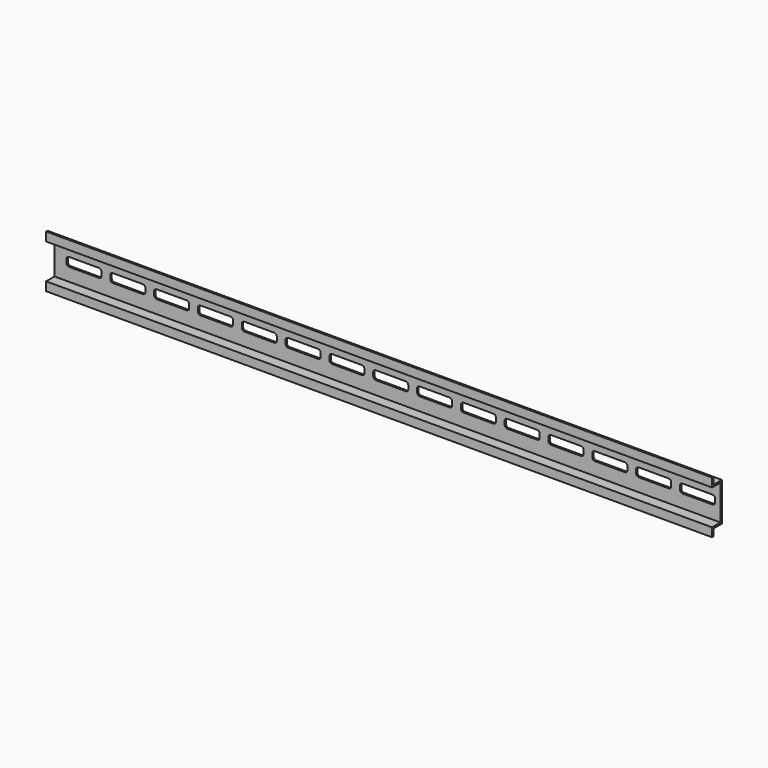
from build123d import *

# Parameters (mm, degrees)
F1_DEPTH = 380
F3_DEPTH = 25


with BuildPart() as f1:
    # F0 (on Right) → F1 (new body)
    with BuildSketch(Plane.YZ):
        Polygon((0, -25.031198), (0, -3.031198), (-6, -3.031198), (-6, 0.968802), (-7, 0.968802), (-7, -4.031198), (-1, -4.031198), (-1, -24.031198), (-7, -24.031198), (-7, -29.031198), (-6, -29.031198), (-6, -25.031198), align=None)
    extrude(amount=F1_DEPTH)

    # F2 (on face) → F3 (cut)
    with BuildSketch(Plane.XZ.offset(1)):
        with BuildLine():
            Line((6.85557, -13.031198), (6.85557, -14.031198))
            Line((6.85557, -14.031198), (26.85557, -14.031198))
            Line((26.85557, -14.031198), (26.85557, -13.031198))
            ThreePointArc((26.85557, -13.031198), (26.41623, -11.970538), (25.35557, -11.531198))
            Line((25.35557, -11.531198), (8.35557, -11.531198))
            ThreePointArc((8.35557, -11.531198), (7.294909, -11.970538), (6.85557, -13.031198))
        make_face()
        with BuildLine():
            Line((26.85557, -14.031198), (6.85557, -14.031198))
            Line((6.85557, -14.031198), (6.85557, -15.031198))
            ThreePointArc((6.85557, -15.031198), (7.294909, -16.091858), (8.35557, -16.531198))
            Line((8.35557, -16.531198), (25.35557, -16.531198))
            ThreePointArc((25.35557, -16.531198), (26.41623, -16.091858), (26.85557, -15.031198))
            Line((26.85557, -15.031198), (26.85557, -14.031198))
        make_face()
        with BuildLine():
            Line((31.85557, -13.031198), (31.85557, -14.031198))
            Line((31.85557, -14.031198), (51.85557, -14.031198))
            Line((51.85557, -14.031198), (51.85557, -13.031198))
            ThreePointArc((51.85557, -13.031198), (51.41623, -11.970538), (50.35557, -11.531198))
            Line((50.35557, -11.531198), (33.35557, -11.531198))
            ThreePointArc((33.35557, -11.531198), (32.294909, -11.970538), (31.85557, -13.031198))
        make_face()
        with BuildLine():
            Line((51.85557, -14.031198), (31.85557, -14.031198))
            Line((31.85557, -14.031198), (31.85557, -15.031198))
            ThreePointArc((31.85557, -15.031198), (32.294909, -16.091858), (33.35557, -16.531198))
            Line((33.35557, -16.531198), (50.35557, -16.531198))
            ThreePointArc((50.35557, -16.531198), (51.41623, -16.091858), (51.85557, -15.031198))
            Line((51.85557, -15.031198), (51.85557, -14.031198))
        make_face()
        with BuildLine():
            Line((56.85557, -13.031198), (56.85557, -14.031198))
            Line((56.85557, -14.031198), (76.85557, -14.031198))
            Line((76.85557, -14.031198), (76.85557, -13.031198))
            ThreePointArc((76.85557, -13.031198), (76.41623, -11.970538), (75.35557, -11.531198))
            Line((75.35557, -11.531198), (58.35557, -11.531198))
            ThreePointArc((58.35557, -11.531198), (57.294909, -11.970538), (56.85557, -13.031198))
        make_face()
        with BuildLine():
            Line((76.85557, -14.031198), (56.85557, -14.031198))
            Line((56.85557, -14.031198), (56.85557, -15.031198))
            ThreePointArc((56.85557, -15.031198), (57.294909, -16.091858), (58.35557, -16.531198))
            Line((58.35557, -16.531198), (75.35557, -16.531198))
            ThreePointArc((75.35557, -16.531198), (76.41623, -16.091858), (76.85557, -15.031198))
            Line((76.85557, -15.031198), (76.85557, -14.031198))
        make_face()
        with BuildLine():
            Line((81.85557, -13.031198), (81.85557, -14.031198))
            Line((81.85557, -14.031198), (101.85557, -14.031198))
            Line((101.85557, -14.031198), (101.85557, -13.031198))
            ThreePointArc((101.85557, -13.031198), (101.41623, -11.970538), (100.35557, -11.531198))
            Line((100.35557, -11.531198), (83.35557, -11.531198))
            ThreePointArc((83.35557, -11.531198), (82.294909, -11.970538), (81.85557, -13.031198))
        make_face()
        with BuildLine():
            Line((101.85557, -14.031198), (81.85557, -14.031198))
            Line((81.85557, -14.031198), (81.85557, -15.031198))
            ThreePointArc((81.85557, -15.031198), (82.294909, -16.091858), (83.35557, -16.531198))
            Line((83.35557, -16.531198), (100.35557, -16.531198))
            ThreePointArc((100.35557, -16.531198), (101.41623, -16.091858), (101.85557, -15.031198))
            Line((101.85557, -15.031198), (101.85557, -14.031198))
        make_face()
        with BuildLine():
            Line((106.85557, -13.031198), (106.85557, -14.031198))
            Line((106.85557, -14.031198), (126.85557, -14.031198))
            Line((126.85557, -14.031198), (126.85557, -13.031198))
            ThreePointArc((126.85557, -13.031198), (126.41623, -11.970538), (125.35557, -11.531198))
            Line((125.35557, -11.531198), (108.35557, -11.531198))
            ThreePointArc((108.35557, -11.531198), (107.294909, -11.970538), (106.85557, -13.031198))
        make_face()
        with BuildLine():
            Line((126.85557, -14.031198), (106.85557, -14.031198))
            Line((106.85557, -14.031198), (106.85557, -15.031198))
            ThreePointArc((106.85557, -15.031198), (107.294909, -16.091858), (108.35557, -16.531198))
            Line((108.35557, -16.531198), (125.35557, -16.531198))
            ThreePointArc((125.35557, -16.531198), (126.41623, -16.091858), (126.85557, -15.031198))
            Line((126.85557, -15.031198), (126.85557, -14.031198))
        make_face()
        with BuildLine():
            Line((131.85557, -13.031198), (131.85557, -14.031198))
            Line((131.85557, -14.031198), (151.85557, -14.031198))
            Line((151.85557, -14.031198), (151.85557, -13.031198))
            ThreePointArc((151.85557, -13.031198), (151.41623, -11.970538), (150.35557, -11.531198))
            Line((150.35557, -11.531198), (133.35557, -11.531198))
            ThreePointArc((133.35557, -11.531198), (132.294909, -11.970538), (131.85557, -13.031198))
        make_face()
        with BuildLine():
            Line((151.85557, -14.031198), (131.85557, -14.031198))
            Line((131.85557, -14.031198), (131.85557, -15.031198))
            ThreePointArc((131.85557, -15.031198), (132.294909, -16.091858), (133.35557, -16.531198))
            Line((133.35557, -16.531198), (150.35557, -16.531198))
            ThreePointArc((150.35557, -16.531198), (151.41623, -16.091858), (151.85557, -15.031198))
            Line((151.85557, -15.031198), (151.85557, -14.031198))
        make_face()
        with BuildLine():
            Line((176.85557, -14.031198), (156.85557, -14.031198))
            Line((156.85557, -14.031198), (156.85557, -15.031198))
            ThreePointArc((156.85557, -15.031198), (157.294909, -16.091858), (158.35557, -16.531198))
            Line((158.35557, -16.531198), (175.35557, -16.531198))
            ThreePointArc((175.35557, -16.531198), (176.41623, -16.091858), (176.85557, -15.031198))
            Line((176.85557, -15.031198), (176.85557, -14.031198))
        make_face()
        with BuildLine():
            Line((156.85557, -13.031198), (156.85557, -14.031198))
            Line((156.85557, -14.031198), (176.85557, -14.031198))
            Line((176.85557, -14.031198), (176.85557, -13.031198))
            ThreePointArc((176.85557, -13.031198), (176.41623, -11.970538), (175.35557, -11.531198))
            Line((175.35557, -11.531198), (158.35557, -11.531198))
            ThreePointArc((158.35557, -11.531198), (157.294909, -11.970538), (156.85557, -13.031198))
        make_face()
        with BuildLine():
            Line((181.85557, -13.031198), (181.85557, -14.031198))
            Line((181.85557, -14.031198), (201.85557, -14.031198))
            Line((201.85557, -14.031198), (201.85557, -13.031198))
            ThreePointArc((201.85557, -13.031198), (201.41623, -11.970538), (200.35557, -11.531198))
            Line((200.35557, -11.531198), (183.35557, -11.531198))
            ThreePointArc((183.35557, -11.531198), (182.294909, -11.970538), (181.85557, -13.031198))
        make_face()
        with BuildLine():
            Line((201.85557, -14.031198), (181.85557, -14.031198))
            Line((181.85557, -14.031198), (181.85557, -15.031198))
            ThreePointArc((181.85557, -15.031198), (182.294909, -16.091858), (183.35557, -16.531198))
            Line((183.35557, -16.531198), (200.35557, -16.531198))
            ThreePointArc((200.35557, -16.531198), (201.41623, -16.091858), (201.85557, -15.031198))
            Line((201.85557, -15.031198), (201.85557, -14.031198))
        make_face()
        with BuildLine():
            Line((226.85557, -15.031198), (226.85557, -14.031198))
            Line((226.85557, -14.031198), (206.85557, -14.031198))
            Line((206.85557, -14.031198), (206.85557, -15.031198))
            ThreePointArc((206.85557, -15.031198), (207.294909, -16.091858), (208.35557, -16.531198))
            Line((208.35557, -16.531198), (225.35557, -16.531198))
            ThreePointArc((225.35557, -16.531198), (226.41623, -16.091858), (226.85557, -15.031198))
        make_face()
        with BuildLine():
            Line((206.85557, -14.031198), (226.85557, -14.031198))
            Line((226.85557, -14.031198), (226.85557, -13.031198))
            ThreePointArc((226.85557, -13.031198), (226.41623, -11.970538), (225.35557, -11.531198))
            Line((225.35557, -11.531198), (208.35557, -11.531198))
            ThreePointArc((208.35557, -11.531198), (207.294909, -11.970538), (206.85557, -13.031198))
            Line((206.85557, -13.031198), (206.85557, -14.031198))
        make_face()
        with BuildLine():
            Line((251.85557, -15.031198), (251.85557, -14.031198))
            Line((251.85557, -14.031198), (231.85557, -14.031198))
            Line((231.85557, -14.031198), (231.85557, -15.031198))
            ThreePointArc((231.85557, -15.031198), (232.294909, -16.091858), (233.35557, -16.531198))
            Line((233.35557, -16.531198), (250.35557, -16.531198))
            ThreePointArc((250.35557, -16.531198), (251.41623, -16.091858), (251.85557, -15.031198))
        make_face()
        with BuildLine():
            Line((231.85557, -14.031198), (251.85557, -14.031198))
            Line((251.85557, -14.031198), (251.85557, -13.031198))
            ThreePointArc((251.85557, -13.031198), (251.41623, -11.970538), (250.35557, -11.531198))
            Line((250.35557, -11.531198), (233.35557, -11.531198))
            ThreePointArc((233.35557, -11.531198), (232.294909, -11.970538), (231.85557, -13.031198))
            Line((231.85557, -13.031198), (231.85557, -14.031198))
        make_face()
        with BuildLine():
            Line((276.85557, -15.031198), (276.85557, -14.031198))
            Line((276.85557, -14.031198), (256.85557, -14.031198))
            Line((256.85557, -14.031198), (256.85557, -15.031198))
            ThreePointArc((256.85557, -15.031198), (257.294909, -16.091858), (258.35557, -16.531198))
            Line((258.35557, -16.531198), (275.35557, -16.531198))
            ThreePointArc((275.35557, -16.531198), (276.41623, -16.091858), (276.85557, -15.031198))
        make_face()
        with BuildLine():
            Line((256.85557, -14.031198), (276.85557, -14.031198))
            Line((276.85557, -14.031198), (276.85557, -13.031198))
            ThreePointArc((276.85557, -13.031198), (276.41623, -11.970538), (275.35557, -11.531198))
            Line((275.35557, -11.531198), (258.35557, -11.531198))
            ThreePointArc((258.35557, -11.531198), (257.294909, -11.970538), (256.85557, -13.031198))
            Line((256.85557, -13.031198), (256.85557, -14.031198))
        make_face()
        with BuildLine():
            Line((301.85557, -15.031198), (301.85557, -14.031198))
            Line((301.85557, -14.031198), (281.85557, -14.031198))
            Line((281.85557, -14.031198), (281.85557, -15.031198))
            ThreePointArc((281.85557, -15.031198), (282.294909, -16.091858), (283.35557, -16.531198))
            Line((283.35557, -16.531198), (300.35557, -16.531198))
            ThreePointArc((300.35557, -16.531198), (301.41623, -16.091858), (301.85557, -15.031198))
        make_face()
        with BuildLine():
            Line((281.85557, -14.031198), (301.85557, -14.031198))
            Line((301.85557, -14.031198), (301.85557, -13.031198))
            ThreePointArc((301.85557, -13.031198), (301.41623, -11.970538), (300.35557, -11.531198))
            Line((300.35557, -11.531198), (283.35557, -11.531198))
            ThreePointArc((283.35557, -11.531198), (282.294909, -11.970538), (281.85557, -13.031198))
            Line((281.85557, -13.031198), (281.85557, -14.031198))
        make_face()
        with BuildLine():
            Line((306.85557, -14.031198), (326.85557, -14.031198))
            Line((326.85557, -14.031198), (326.85557, -13.031198))
            ThreePointArc((326.85557, -13.031198), (326.41623, -11.970538), (325.35557, -11.531198))
            Line((325.35557, -11.531198), (308.35557, -11.531198))
            ThreePointArc((308.35557, -11.531198), (307.294909, -11.970538), (306.85557, -13.031198))
            Line((306.85557, -13.031198), (306.85557, -14.031198))
        make_face()
        with BuildLine():
            Line((326.85557, -15.031198), (326.85557, -14.031198))
            Line((326.85557, -14.031198), (306.85557, -14.031198))
            Line((306.85557, -14.031198), (306.85557, -15.031198))
            ThreePointArc((306.85557, -15.031198), (307.294909, -16.091858), (308.35557, -16.531198))
            Line((308.35557, -16.531198), (325.35557, -16.531198))
            ThreePointArc((325.35557, -16.531198), (326.41623, -16.091858), (326.85557, -15.031198))
        make_face()
        with BuildLine():
            Line((351.85557, -15.031198), (351.85557, -14.031198))
            Line((351.85557, -14.031198), (331.85557, -14.031198))
            Line((331.85557, -14.031198), (331.85557, -15.031198))
            ThreePointArc((331.85557, -15.031198), (332.294909, -16.091858), (333.35557, -16.531198))
            Line((333.35557, -16.531198), (350.35557, -16.531198))
            ThreePointArc((350.35557, -16.531198), (351.41623, -16.091858), (351.85557, -15.031198))
        make_face()
        with BuildLine():
            Line((331.85557, -14.031198), (351.85557, -14.031198))
            Line((351.85557, -14.031198), (351.85557, -13.031198))
            ThreePointArc((351.85557, -13.031198), (351.41623, -11.970538), (350.35557, -11.531198))
            Line((350.35557, -11.531198), (333.35557, -11.531198))
            ThreePointArc((333.35557, -11.531198), (332.294909, -11.970538), (331.85557, -13.031198))
            Line((331.85557, -13.031198), (331.85557, -14.031198))
        make_face()
        with BuildLine():
            Line((356.85557, -14.031198), (376.85557, -14.031198))
            Line((376.85557, -14.031198), (376.85557, -13.031198))
            ThreePointArc((376.85557, -13.031198), (376.41623, -11.970538), (375.35557, -11.531198))
            Line((375.35557, -11.531198), (358.35557, -11.531198))
            ThreePointArc((358.35557, -11.531198), (357.294909, -11.970538), (356.85557, -13.031198))
            Line((356.85557, -13.031198), (356.85557, -14.031198))
        make_face()
        with BuildLine():
            Line((376.85557, -15.031198), (376.85557, -14.031198))
            Line((376.85557, -14.031198), (356.85557, -14.031198))
            Line((356.85557, -14.031198), (356.85557, -15.031198))
            ThreePointArc((356.85557, -15.031198), (357.294909, -16.091858), (358.35557, -16.531198))
            Line((358.35557, -16.531198), (375.35557, -16.531198))
            ThreePointArc((375.35557, -16.531198), (376.41623, -16.091858), (376.85557, -15.031198))
        make_face()
    extrude(amount=-F3_DEPTH, mode=Mode.SUBTRACT)


solid = f1.part
